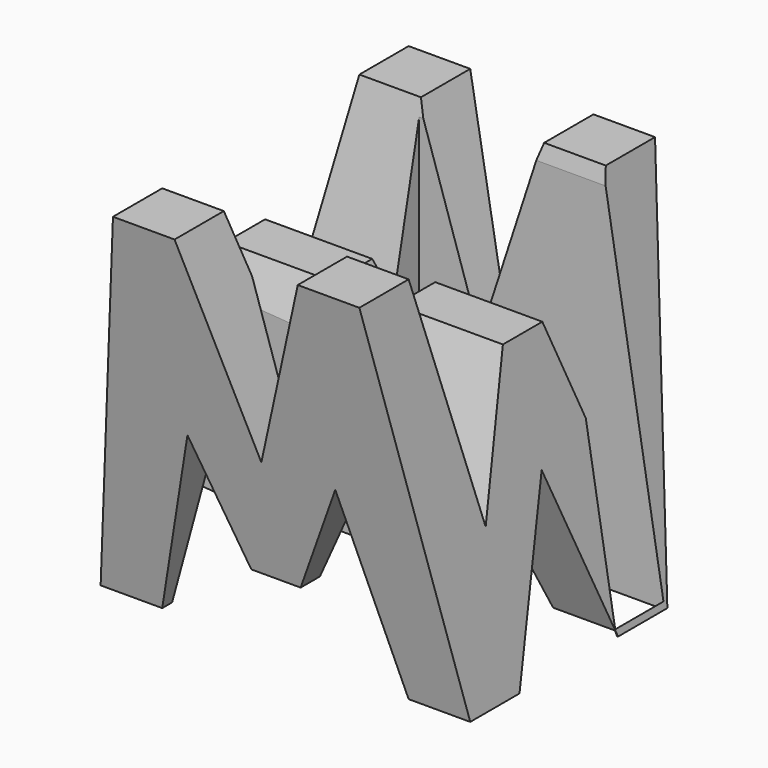
from build123d import *

# Parameters (mm, degrees)
F0_W      = 38.1
F0_H      = 38.1
F1_DEPTH  = 38.1
F6_DEPTH  = 38.1
F8_DEPTH  = 38.1
F10_DEPTH = 38.1
F11_W     = 25.183282
F11_H     = 6.221752
F12_DEPTH = 38.1


with BuildPart() as f1:
    # F0 (on Front) → F1 (new body)
    with BuildSketch(Plane.XZ):
        with Locations((19.05, 19.05)):
            Rectangle(F0_W, F0_H)
    extrude(amount=F1_DEPTH)

    # F5 (on offset) → F6 (cut)
    with BuildSketch(Plane.YZ.offset(38.1)):
        Polygon((-6.35, 38.1), (-31.75, 38.1), (-26.67, 14.842794), (-21.59, 28.575), (-16.51, 28.575), (-11.43, 14.842794), align=None)
        Polygon((-38.1, 38.1), (-38.1, 0), (-31.75, 0), align=None)
        Polygon((-19.05, 16.785284), (-25.4, 0), (-12.7, 0), align=None)
        Polygon((0, 38.1), (-6.35, 0), (0, 0), align=None)
    extrude(amount=-F6_DEPTH, mode=Mode.SUBTRACT)

    # F7 (on offset) → F8 (cut)
    with BuildSketch(Plane.XZ.offset(38.1)):
        Polygon((25.4, 38.1), (12.7, 38.1), (19.05, 18.617285), align=None)
        Polygon((0, 38.1), (0, 0), (6.35, 38.1), align=None)
        Polygon((11.43, 18.617285), (6.35, 0), (31.75, 0), (26.67, 18.617285), (21.59, 7.313934), (16.51, 7.313934), align=None)
        Polygon((31.75, 38.1), (38.1, 0), (38.1, 38.1), align=None)
    extrude(amount=-F8_DEPTH, mode=Mode.SUBTRACT)

    # F9 (on offset) → F10 (cut)
    with BuildSketch(Plane.XY.offset(38.1)):
        Polygon((25.308223, -23.404286), (0, -22.86), (0, -30.48), (25.308223, -30.48), align=None)
    extrude(amount=-F10_DEPTH, mode=Mode.SUBTRACT)

    # F11 (on offset) → F12 (cut)
    with BuildSketch(Plane.XY.offset(38.1)):
        with Locations((25.390372, -9.81442)):
            Rectangle(F11_W, F11_H)
    extrude(amount=-F12_DEPTH, mode=Mode.SUBTRACT)


solid = f1.part
